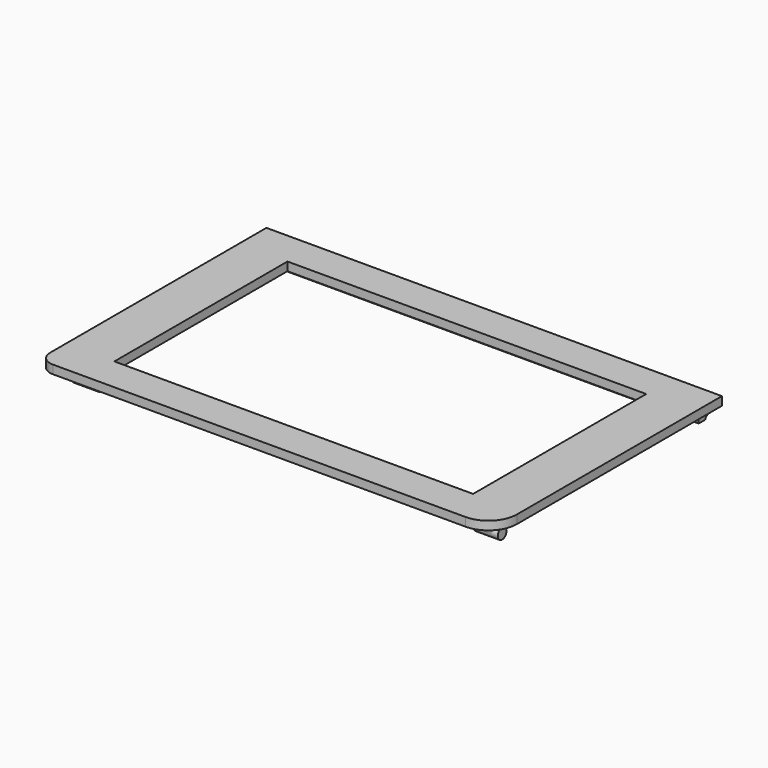
from build123d import *

# Parameters (mm, degrees)
BOX_W             = 160
BOX_H             = 100
BOX_DEPTH         = 3
BOX001_W          = 126
BOX001_H          = 76
BOX001_DEPTH      = 5
BOX023_W          = 153.6
BOX023_H          = 3
BOX023_DEPTH      = 4
BOX024_W          = 3.8
BOX024_H          = 3.8
BOX024_DEPTH      = 4.6
CYLINDER012_R     = 1.9
CYLINDER012_DEPTH = 8.6
FILLET_R          = 10
FILLET015_R       = 5
PAD021_DEPTH      = 76.8


with BuildPart() as part:
    # Box → Box (join)
    with BuildSketch(Plane(origin=(-80, -50, -5), x_dir=(1, 0, 0), z_dir=(0, 0, 1))):
        with Locations((80, 50)):
            Rectangle(BOX_W, BOX_H)
    extrude(amount=BOX_DEPTH)

    # Box001 → Box001 (cut)
    with BuildSketch(Plane(origin=(-63, -38, -6), x_dir=(1, 0, 0), z_dir=(0, 0, 1))):
        with Locations((63, 38)):
            Rectangle(BOX001_W, BOX001_H)
    extrude(amount=BOX001_DEPTH, mode=Mode.SUBTRACT)

    # Box023 → Box023 (join)
    with BuildSketch(Plane(origin=(-76.8, 43.8, -9), x_dir=(1, 0, 0), z_dir=(0, 0, 1))):
        with Locations((76.8, 1.5)):
            Rectangle(BOX023_W, BOX023_H)
    extrude(amount=BOX023_DEPTH)

    # Box024 → Box024 (join)
    with BuildSketch(Plane(origin=(68.6, -41.9, -9.6), x_dir=(1, 0, 0), z_dir=(0, 0, 1))):
        with Locations((1.9, 1.9)):
            Rectangle(BOX024_W, BOX024_H)
    box024 = extrude(amount=BOX024_DEPTH)

    # Cylinder012 → Cylinder012 (join)
    with BuildSketch(Plane(origin=(66.2, -40, -9.6), x_dir=(0, 1, 0), z_dir=(1, 0, 0))):
        Circle(CYLINDER012_R)
    cylinder012 = extrude(amount=CYLINDER012_DEPTH)

    # Mirrored006: Box024, Cylinder012 across YZ
    add(box024.mirror(Plane.YZ))
    add(cylinder012.mirror(Plane.YZ))

    # Fillet
    fillet_edges = [part.edges().sort_by_distance(p)[0] for p in [
        (80, -50, -3.5),
    ]]
    fillet(fillet_edges, radius=FILLET_R)

    # Fillet015
    fillet015_edges = [part.edges().sort_by_distance(p)[0] for p in [
        (-80, -50, -3.5),
    ]]
    fillet(fillet015_edges, radius=FILLET015_R)

    # Sketch038 → Pad021 (join, symmetric)
    with BuildSketch(Plane.YZ):
        Polygon((46.8, -6.653981), (46.8, -8.5), (47.9, -7.57699), align=None)
    extrude(amount=PAD021_DEPTH, both=True)


solid = part.part
